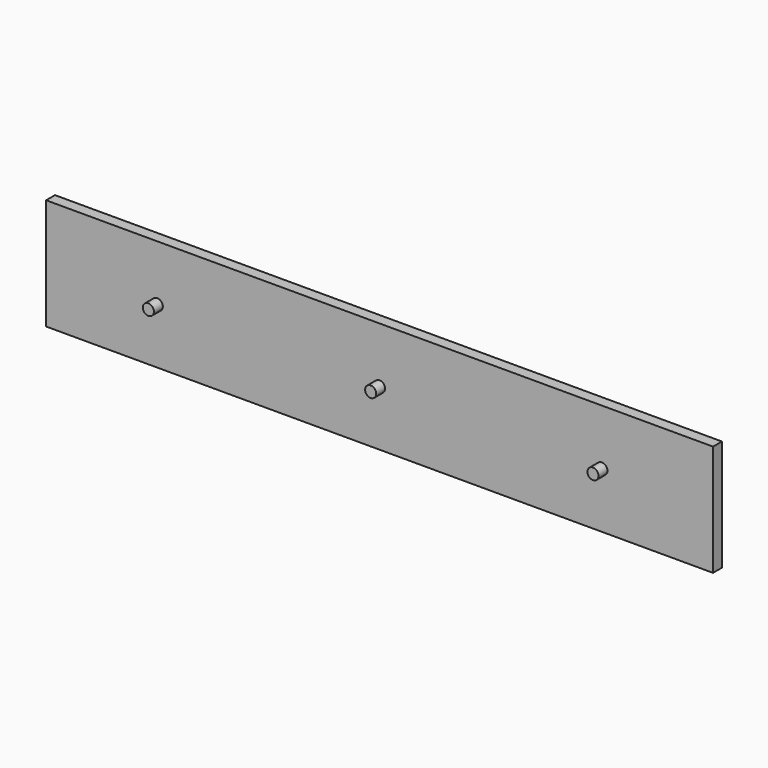
from build123d import *

# Parameters (mm, degrees)
F0_W     = 300
F0_H     = 50
F0_R     = 2.5
F1_DEPTH = 5
F2_DEPTH = 10


with BuildPart() as f1:
    # F0 (on Front) → F1 (new body)
    with BuildSketch(Plane.XZ):
        Rectangle(F0_W, F0_H)
        with Locations((-100, 0)):
            Circle(F0_R, mode=Mode.SUBTRACT)
        Circle(F0_R, mode=Mode.SUBTRACT)
        with Locations((100, 0)):
            Circle(F0_R, mode=Mode.SUBTRACT)
    extrude(amount=F1_DEPTH)

    # F0 (on Front) → F2 (join)
    with BuildSketch(Plane.XZ):
        with Locations((-100, 0)):
            Circle(F0_R)
        Circle(F0_R)
        with Locations((100, 0)):
            Circle(F0_R)
    extrude(amount=F2_DEPTH)


solid = f1.part
